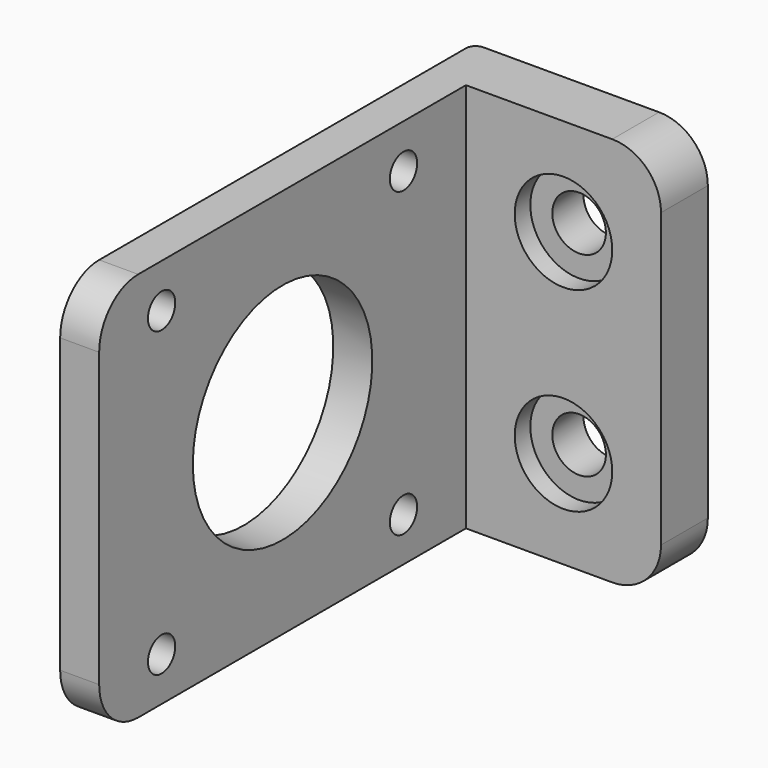
from build123d import *

# Parameters (mm, degrees)
F5_DEPTH       = 40
F1_D           = 3.5
F7_D           = 23
F2_D           = 5.5
F2_CBORE_D     = 10
F2_CBORE_DEPTH = 2
F3_R           = 5
F4_R           = 1


with BuildPart() as f5:
    # F0 (on Top) → F5 (new body)
    with BuildSketch(Plane.XY):
        Polygon((0, 23.38951), (0, -29.61049), (4, -29.61049), (4, 17.38951), (24, 17.38951), (24, 23.38951), align=None)
    extrude(amount=F5_DEPTH)

    # F1 (through all)
    with Locations(Plane.YZ.offset(4)):
        with Locations((-21.61049, 35.5), (9.38951, 35.5), (-21.61049, 4.5), (9.38951, 4.5)):
            Hole(F1_D / 2)

    # F7 (through all)
    with Locations(Plane.YZ.offset(4)):
        with Locations((-6.11049, 20)):
            Hole(F7_D / 2)

    # F2 (through all)
    with Locations(Plane.XZ.offset(-17.38951)):
        with Locations((14, 30), (14, 10)):
            CounterBoreHole(F2_D / 2, F2_CBORE_D / 2, F2_CBORE_DEPTH)

    # F3
    f3_edges = [f5.edges().sort_by_distance(p)[0] for p in [
        (2, -29.61049, 40),
        (2, -29.61049, 0),
        (24, 20.38951, 40),
        (24, 20.38951, 0),
    ]]
    fillet(f3_edges, radius=F3_R)

    # F4
    f4_edges = [f5.edges().sort_by_distance(p)[0] for p in [
        (0, 23.38951, 20),
    ]]
    fillet(f4_edges, radius=F4_R)


solid = f5.part
